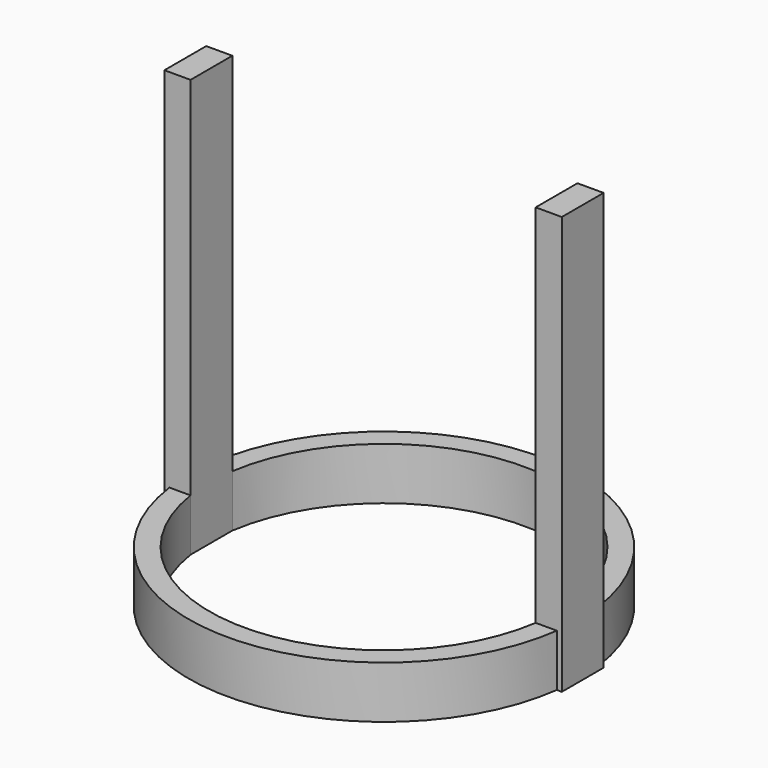
from build123d import *

# Parameters (mm, degrees)
F1_DEPTH = 50.8
F2_DEPTH = 6.35


with BuildPart() as f1:
    # F0 (on Top) → F1 (new body)
    with BuildSketch(Plane.XY):
        Polygon((-23.535811, -3.175), (-20.970004, -3.175), (-20.970004, 3.175), (-23.535811, 3.175), (-24.145004, 3.175), (-24.145004, -3.175), align=None)
        Polygon((20.970004, 3.175), (20.970004, -3.175), (23.535811, -3.175), (24.145004, -3.175), (24.145004, 3.175), (23.535811, 3.175), align=None)
    extrude(amount=F1_DEPTH)

    # F0 (on Top) → F2 (join)
    with BuildSketch(Plane.XY):
        with BuildLine():
            ThreePointArc((20.970004, -3.175), (0, -21.209), (-20.970004, -3.175))
            Line((-20.970004, -3.175), (-23.535811, -3.175))
            ThreePointArc((-23.535811, -3.175), (0, -23.749), (23.535811, -3.175))
            Line((23.535811, -3.175), (20.970004, -3.175))
        make_face()
        Polygon((-23.535811, -3.175), (-20.970004, -3.175), (-20.970004, 3.175), (-23.535811, 3.175), (-24.145004, 3.175), (-24.145004, -3.175), align=None)
        Polygon((20.970004, 3.175), (20.970004, -3.175), (23.535811, -3.175), (24.145004, -3.175), (24.145004, 3.175), (23.535811, 3.175), align=None)
        with BuildLine():
            Line((-23.535811, 3.175), (-20.970004, 3.175))
            ThreePointArc((-20.970004, 3.175), (0, 21.209), (20.970004, 3.175))
            Line((20.970004, 3.175), (23.535811, 3.175))
            ThreePointArc((23.535811, 3.175), (0, 23.749), (-23.535811, 3.175))
        make_face()
    extrude(amount=F2_DEPTH)


solid = f1.part
